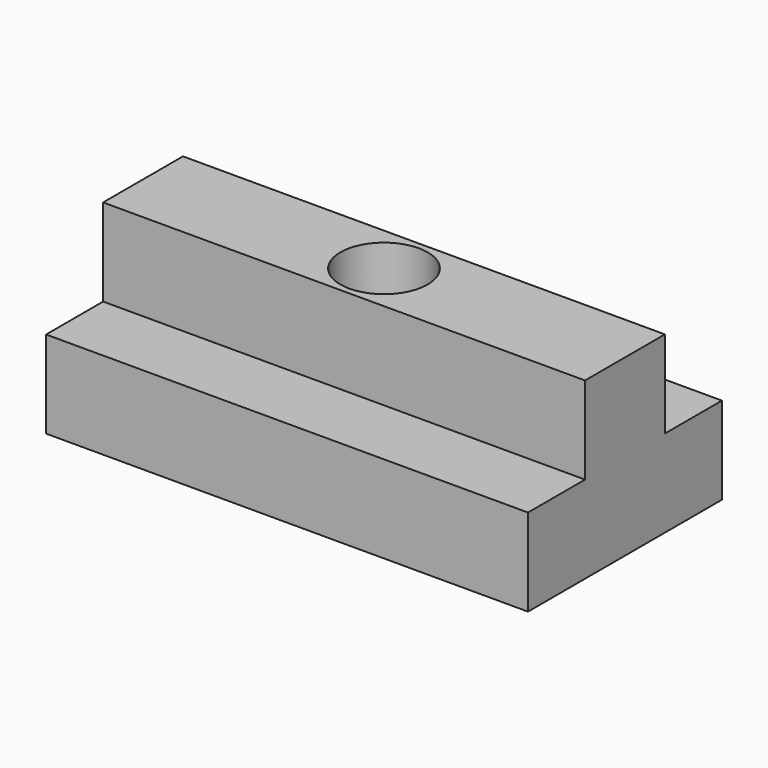
from build123d import *

# Parameters (mm, degrees)
F0_W     = 70.120454
F0_H     = 10.372847
F0_H_2   = 14.521986
F1_DEPTH = 12.7
F2_DEPTH = 12.7
F4_D     = 12.7


with BuildPart() as f1:
    # F0 (on Top) → F1 (new body)
    with BuildSketch(Plane.XY):
        with Locations((0, -12.447416)):
            Rectangle(F0_W, F0_H)
        Rectangle(F0_W, F0_H_2)
        with Locations((0, 12.447416)):
            Rectangle(F0_W, F0_H)
    extrude(amount=-F1_DEPTH)

    # F0 (on Top) → F2 (join)
    with BuildSketch(Plane.XY):
        Rectangle(F0_W, F0_H_2)
    extrude(amount=F2_DEPTH)

    # F4 (through all)
    with Locations(Plane.XY.offset(12.7)):
        with Locations((0, 0)):
            Hole(F4_D / 2)


solid = f1.part
